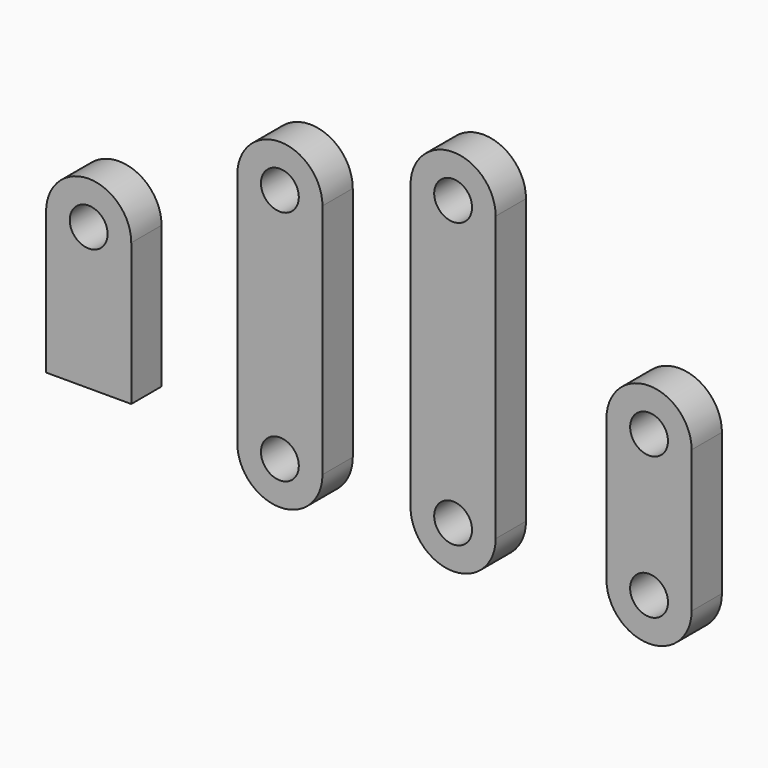
from build123d import *

# Parameters (mm, degrees)
F1_R     = 4
F2_DEPTH = 8
F3_R     = 4
F4_DEPTH = 8
F5_R     = 4
F6_DEPTH = 8
F7_R     = 4
F8_DEPTH = 8


with BuildPart() as f2:
    # F1 (on Front) → F2 (new body)
    with BuildSketch(Plane.XZ):
        with BuildLine():
            Line((-9, 60), (-9, 0))
            ThreePointArc((-9, 0), (0, -9), (9, 0))
            Line((9, 0), (9, 60))
            ThreePointArc((9, 60), (0, 69), (-9, 60))
        make_face()
        Circle(F1_R, mode=Mode.SUBTRACT)
        with Locations((0, 60)):
            Circle(F1_R, mode=Mode.SUBTRACT)
    extrude(amount=F2_DEPTH)


with BuildPart() as f4:
    # F3 (on Front) → F4 (new body)
    with BuildSketch(Plane.XZ):
        with BuildLine():
            Line((-45.6101530673, 50), (-45.6101530673, 0))
            ThreePointArc((-45.6101530673, 0), (-36.6101530673, -9), (-27.6101530673, 0))
            Line((-27.6101530673, 0), (-27.6101530673, 50))
            ThreePointArc((-27.6101530673, 50), (-36.6101530673, 59), (-45.6101530673, 50))
        make_face()
        with Locations((-36.6101530673, 0)):
            Circle(F3_R, mode=Mode.SUBTRACT)
        with Locations((-36.6101530673, 50)):
            Circle(F3_R, mode=Mode.SUBTRACT)
    extrude(amount=F4_DEPTH)


with BuildPart() as f6:
    # F5 (on Front) → F6 (new body)
    with BuildSketch(Plane.XZ):
        with BuildLine():
            Line((32.4090709025, 30), (32.4090709025, 0))
            ThreePointArc((32.4090709025, 0), (41.4090709025, -9), (50.4090709025, 0))
            Line((50.4090709025, 0), (50.4090709025, 30))
            ThreePointArc((50.4090709025, 30), (41.4090709025, 39), (32.4090709025, 30))
        make_face()
        with Locations((41.4090709025, 0)):
            Circle(F5_R, mode=Mode.SUBTRACT)
        with Locations((41.4090709025, 30)):
            Circle(F5_R, mode=Mode.SUBTRACT)
    extrude(amount=F6_DEPTH)


with BuildPart() as f8:
    # F7 (on Front) → F8 (new body)
    with BuildSketch(Plane.XZ):
        with BuildLine():
            Line((-68.0227638346, 0), (-68.0227638346, 30))
            ThreePointArc((-68.0227638346, 30), (-77.0227638346, 39), (-86.0227638346, 30))
            Line((-86.0227638346, 30), (-86.0227638346, 0))
            Line((-86.0227638346, 0), (-68.0227638346, 0))
        make_face()
        with Locations((-77.0227638346, 30)):
            Circle(F7_R, mode=Mode.SUBTRACT)
    extrude(amount=F8_DEPTH)


solid = Compound([f2.part, f4.part, f6.part, f8.part])
